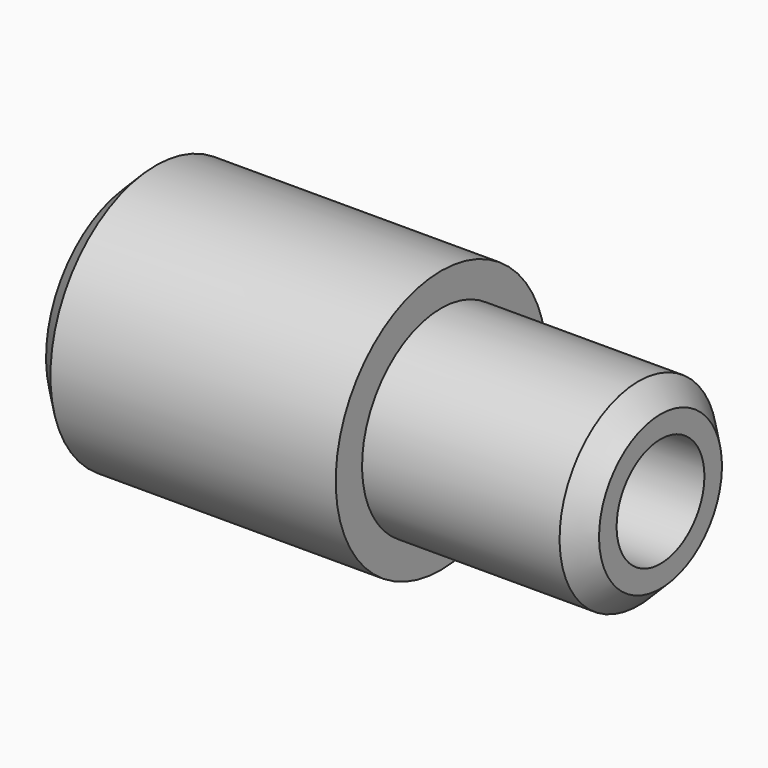
from build123d import *

# Parameters (mm, degrees)
F3_SIZE = 1


with BuildPart() as f2:
    # F0 (on Front) → F2 (revolve)
    with BuildSketch(Plane.XZ):
        Polygon((0, 6), (0, 2.5), (24, 2.5), (24, 4.5), (14, 4.5), (14, 6), align=None)
    revolve(axis=Axis((18.827895, 0, 0), (1, 0, 0)))

    # F3
    f3_edges = [f2.edges().sort_by_distance(p)[0] for p in [
        (24, 0, -4.5),
        (0, 0, -6),
        (0, 0, -2.5),
    ]]
    chamfer(f3_edges, length=F3_SIZE)


solid = f2.part
